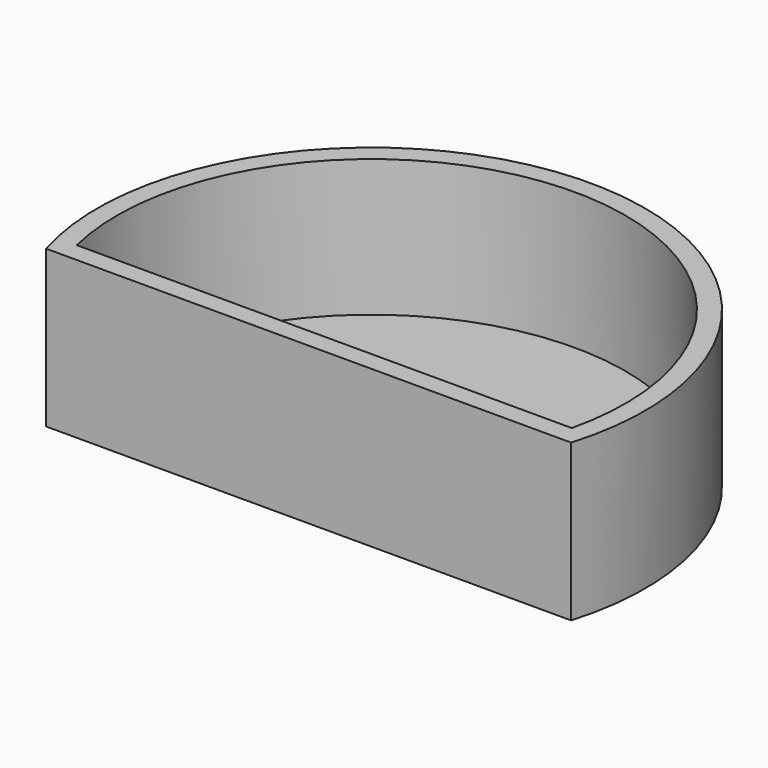
from build123d import *

# Parameters (mm, degrees)
F1_DEPTH = 40
F3_DEPTH = 35


with BuildPart() as f1:
    # F0 (on Top) → F1 (new body)
    with BuildSketch(Plane.XY):
        with BuildLine():
            Line((-67.082039, -20), (67.082039, -20))
            ThreePointArc((67.082039, -20), (0, 70), (-67.082039, -20))
        make_face()
    extrude(amount=-F1_DEPTH)

    # F2 (on face) → F3 (cut)
    with BuildSketch(Plane.XY):
        with BuildLine():
            Line((-63.245553, -15), (63.245553, -15))
            ThreePointArc((63.245553, -15), (0, 65), (-63.245553, -15))
        make_face()
    extrude(amount=-F3_DEPTH, mode=Mode.SUBTRACT)


solid = f1.part
